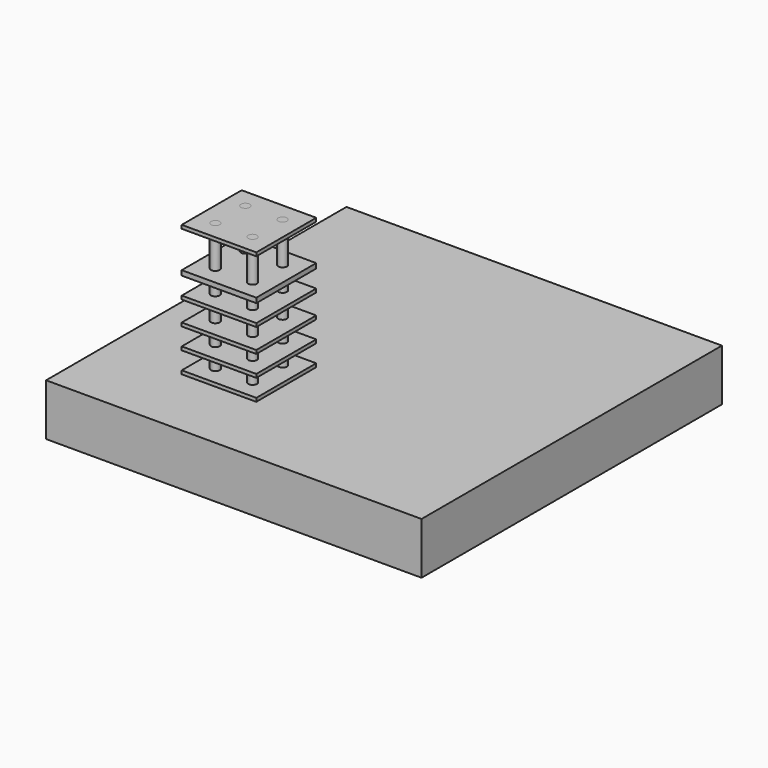
from build123d import *

# Parameters (mm, degrees)
F0_W     = 428
F0_H     = 428
F1_DEPTH = 59
F2_W     = 84.9850364029
F2_H     = 85.393615067
F3_DEPTH = 150
F5_W     = 84.9850364029
F5_H     = 20
F5_H_2   = 23
F6_DEPTH = 100
F4_R     = 5
F7_DEPTH = 153


with BuildPart() as f1:
    # F0 (on Top) → F1 (new body)
    with BuildSketch(Plane.XY):
        Rectangle(F0_W, F0_H)
    extrude(amount=F1_DEPTH)

    # F2 (on face) → F3 (join)
    with BuildSketch(Plane.XY.offset(59)):
        with Locations((-84.4293590635, -86.8584625423)):
            Rectangle(F2_W, F2_H)
    extrude(amount=F3_DEPTH)

    # F5 (on face) → F6 (cut)
    with BuildSketch(Plane.XZ.offset(129.5552700758)):
        with Locations((-84.4293590635, 73)):
            Rectangle(F5_W, F5_H)
        with Locations((-84.4293590635, 97)):
            Rectangle(F5_W, F5_H)
        with Locations((-84.4293590635, 122.5)):
            Rectangle(F5_W, F5_H_2)
        with Locations((-84.4293590635, 148)):
            Rectangle(F5_W, F5_H)
        Polygon((-126.921877265, 205), (-126.921877265, 163.5154783726), (-124.7830837965, 163.5154783726), (-41.936840862, 163.5154783726), (-41.936840862, 205), align=None)
    extrude(amount=-F6_DEPTH, mode=Mode.SUBTRACT)


with BuildPart() as f7:
    # F4 (on face) → F7 (new body)
    with BuildSketch(Plane.XY.offset(209)):
        with Locations((-105.6756181642, -65.5100587755)):
            Circle(F4_R)
    extrude(amount=-F7_DEPTH)


with BuildPart() as f7b:
    # F4 (on face) → F7, piece 2 (new body)
    with BuildSketch(Plane.XY.offset(209)):
        with Locations((-105.6756181642, -108.206866309)):
            Circle(F4_R)
    extrude(amount=-F7_DEPTH)


with BuildPart() as f7c:
    # F4 (on face) → F7, piece 3 (new body)
    with BuildSketch(Plane.XY.offset(209)):
        with Locations((-63.1830999628, -108.206866309)):
            Circle(F4_R)
    extrude(amount=-F7_DEPTH)


with BuildPart() as f7d:
    # F4 (on face) → F7, piece 4 (new body)
    with BuildSketch(Plane.XY.offset(209)):
        with Locations((-63.1830999628, -65.5100587755)):
            Circle(F4_R)
    extrude(amount=-F7_DEPTH)


solid = Compound([f1.part, f7.part, f7b.part, f7c.part, f7d.part])
